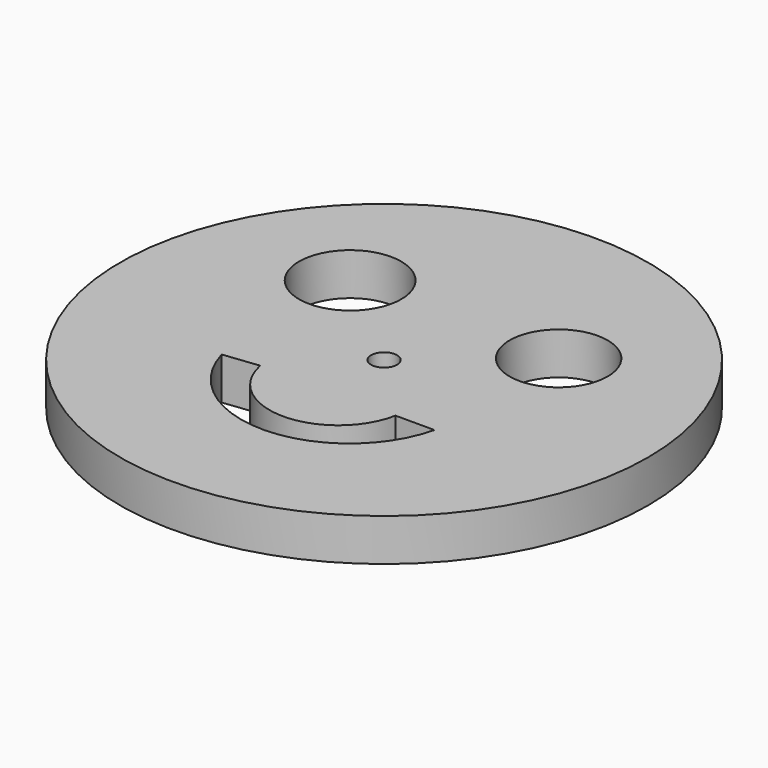
from build123d import *

# Parameters (mm, degrees)
F0_R     = 39.644393
F1_DEPTH = 6.35
F2_R     = 7.676515
F2_R_2   = 7.361152
F2_R_3   = 1.953076
F3_DEPTH = 6.351


with BuildPart() as f1:
    # F0 (on Top) → F1 (new body)
    with BuildSketch(Plane.XY):
        Circle(F0_R)
    extrude(amount=F1_DEPTH)

    # F2 (on face) → F3 (cut, through all)
    with BuildSketch(Plane.XY.offset(6.35)):
        with Locations((-15.738009, 13.301156)):
            Circle(F2_R)
        with Locations((15.738009, 13.098084)):
            Circle(F2_R_2)
        Circle(F2_R_3)
        with BuildLine():
            Line((-10.430831, -10.205741), (-15.738009, -10.814955))
            ThreePointArc((-15.738009, -10.814955), (0.235681, -22.687173), (15.738009, -10.205741))
            Line((15.738009, -10.205741), (9.876276, -10.205741))
            ThreePointArc((9.876276, -10.205741), (-0.277277, -18.591153), (-10.430831, -10.205741))
        make_face()
    extrude(amount=-F3_DEPTH, mode=Mode.SUBTRACT)


solid = f1.part
